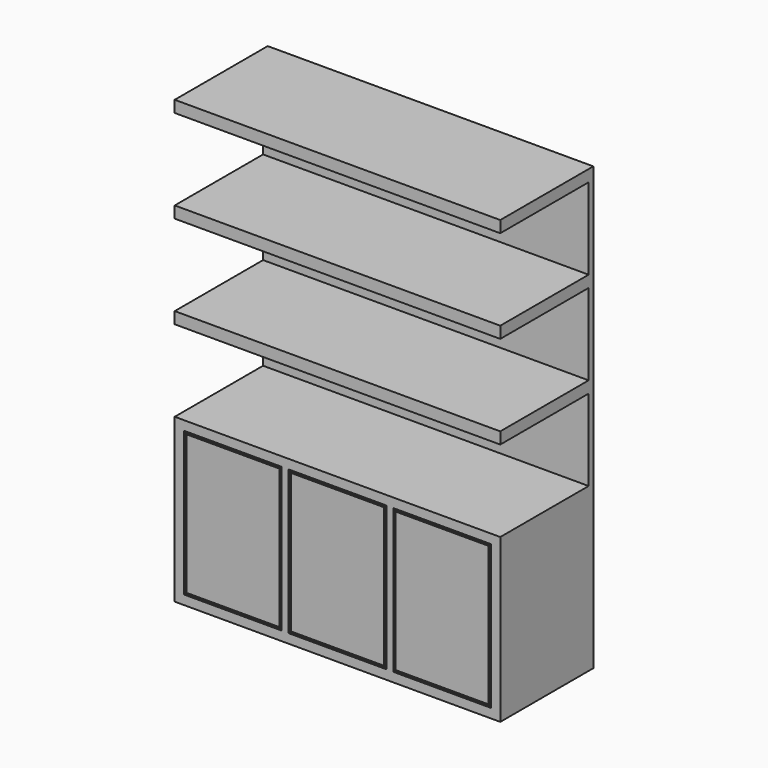
from build123d import *

# Parameters (mm, degrees)
F0_W     = 1400
F0_H     = 700
F0_W_2   = 420.8995199203
F0_H_2   = 620
F0_W_3   = 420
F0_H_3   = 350
F0_W_4   = 400
F0_H_4   = 600
F0_H_5   = 50
F1_DEPTH = 25
F2_DEPTH = 500
F3_START = 490
F3_DEPTH = 10


with BuildPart() as f1:
    # F0 (on Front) → F1 (new body)
    with BuildSketch(Plane.XZ):
        with Locations((0, 350)):
            Rectangle(F0_W, F0_H)
        with Locations((-450.4497599602, 350)):
            Rectangle(F0_W_2, F0_H_2, mode=Mode.SUBTRACT)
        with Locations((0, 350)):
            Rectangle(F0_W_3, F0_H_2, mode=Mode.SUBTRACT)
        with Locations((450, 350)):
            Rectangle(F0_W_3, F0_H_2, mode=Mode.SUBTRACT)
        with Locations((0, 875)):
            Rectangle(F0_W, F0_H_3)
        with Locations((0, 1275)):
            Rectangle(F0_W, F0_H_3)
        with Locations((0, 1675)):
            Rectangle(F0_W, F0_H_3)
        with Locations((-450.4497599602, 350)):
            Rectangle(F0_W_2, F0_H_2)
        with Locations((-450, 350)):
            Rectangle(F0_W_4, F0_H_4, mode=Mode.SUBTRACT)
        with Locations((450, 350)):
            Rectangle(F0_W_3, F0_H_2)
        with Locations((450, 350)):
            Rectangle(F0_W_4, F0_H_4, mode=Mode.SUBTRACT)
        with Locations((0, 350)):
            Rectangle(F0_W_3, F0_H_2)
        with Locations((0, 350)):
            Rectangle(F0_W_4, F0_H_4, mode=Mode.SUBTRACT)
        with Locations((450, 350)):
            Rectangle(F0_W_4, F0_H_4)
        with Locations((0, 350)):
            Rectangle(F0_W_4, F0_H_4)
        with Locations((-450, 350)):
            Rectangle(F0_W_4, F0_H_4)
        with Locations((0, 1075)):
            Rectangle(F0_W, F0_H_5)
        with Locations((0, 1475)):
            Rectangle(F0_W, F0_H_5)
        with Locations((0, 1875)):
            Rectangle(F0_W, F0_H_5)
    extrude(amount=F1_DEPTH)

    # F0 (on Front) → F2 (join)
    with BuildSketch(Plane.XZ):
        with Locations((0, 350)):
            Rectangle(F0_W, F0_H)
        with Locations((-450.4497599602, 350)):
            Rectangle(F0_W_2, F0_H_2, mode=Mode.SUBTRACT)
        with Locations((0, 350)):
            Rectangle(F0_W_3, F0_H_2, mode=Mode.SUBTRACT)
        with Locations((450, 350)):
            Rectangle(F0_W_3, F0_H_2, mode=Mode.SUBTRACT)
        with Locations((-450.4497599602, 350)):
            Rectangle(F0_W_2, F0_H_2)
        with Locations((-450, 350)):
            Rectangle(F0_W_4, F0_H_4, mode=Mode.SUBTRACT)
        with Locations((450, 350)):
            Rectangle(F0_W_3, F0_H_2)
        with Locations((450, 350)):
            Rectangle(F0_W_4, F0_H_4, mode=Mode.SUBTRACT)
        with Locations((0, 350)):
            Rectangle(F0_W_3, F0_H_2)
        with Locations((0, 350)):
            Rectangle(F0_W_4, F0_H_4, mode=Mode.SUBTRACT)
        with Locations((-450, 350)):
            Rectangle(F0_W_4, F0_H_4)
        with Locations((0, 350)):
            Rectangle(F0_W_4, F0_H_4)
        with Locations((450, 350)):
            Rectangle(F0_W_4, F0_H_4)
        with Locations((0, 1875)):
            Rectangle(F0_W, F0_H_5)
        with Locations((0, 1475)):
            Rectangle(F0_W, F0_H_5)
        with Locations((0, 1075)):
            Rectangle(F0_W, F0_H_5)
    extrude(amount=F2_DEPTH)

    # F0 (on Front) → F3 (cut)
    with BuildSketch(Plane.XZ.offset(F3_START)):
        with Locations((450, 350)):
            Rectangle(F0_W_3, F0_H_2)
        with Locations((450, 350)):
            Rectangle(F0_W_4, F0_H_4, mode=Mode.SUBTRACT)
        with Locations((0, 350)):
            Rectangle(F0_W_3, F0_H_2)
        with Locations((0, 350)):
            Rectangle(F0_W_4, F0_H_4, mode=Mode.SUBTRACT)
        with Locations((-450.4497599602, 350)):
            Rectangle(F0_W_2, F0_H_2)
        with Locations((-450, 350)):
            Rectangle(F0_W_4, F0_H_4, mode=Mode.SUBTRACT)
    extrude(amount=F3_DEPTH, mode=Mode.SUBTRACT)


solid = f1.part
